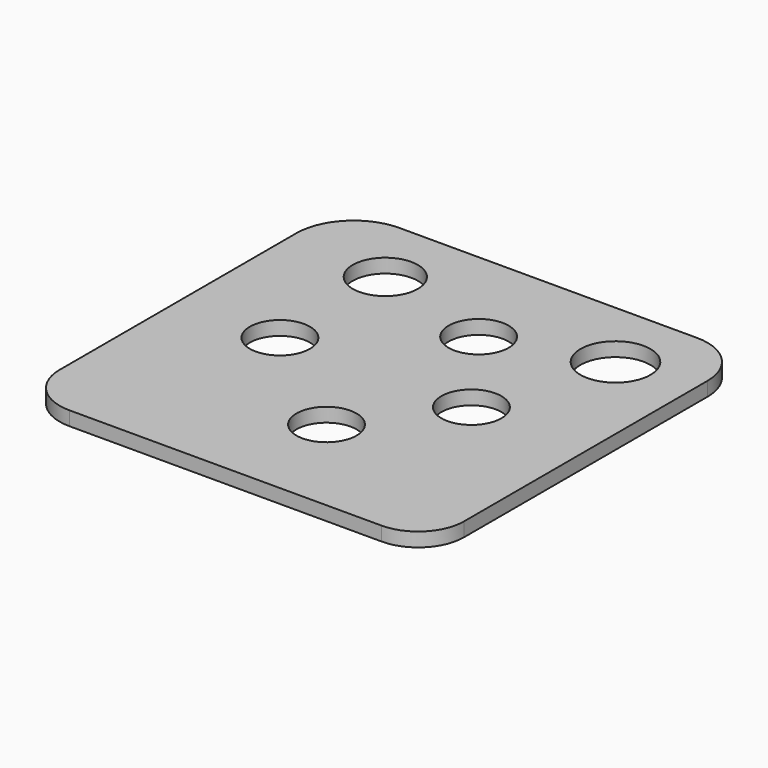
from build123d import *

# Parameters (mm, degrees)
PAD002_DEPTH    = 1.4
SKETCH004_R     = 3
POCKET001_DEPTH = 1.401
SKETCH006_R     = 3
POCKET002_DEPTH = 1.401
SKETCH007_R     = 3.5
POCKET003_DEPTH = 1.401
SKETCH008_R     = 3.25
POCKET004_DEPTH = 1.401


with BuildPart() as part:
    # Sketch003 → Pad002 (new body)
    with BuildSketch(Plane.XY):
        with BuildLine():
            Line((5.695763, -19.849672), (35.445129, -19.849672))
            ThreePointArc((40.603524, -25.008067), (39.092665, -21.360531), (35.445129, -19.849672))
            Line((40.603524, -25.008067), (40.603524, -55.432506))
            ThreePointArc((36.03603, -60), (39.265736, -58.662212), (40.603524, -55.432506))
            Line((36.03603, -60), (4.835631, -60))
            ThreePointArc((-0.035371, -55.128997), (1.391312, -58.573316), (4.835631, -60))
            Line((-0.035371, -55.128997), (-0.035371, -25.580806))
            ThreePointArc((5.695763, -19.849672), (1.643239, -21.528282), (-0.035371, -25.580806))
        make_face()
    extrude(amount=PAD002_DEPTH)

    # Sketch004 (on Face10 of Pad002) → Pocket001 (cut, through all)
    with BuildSketch(Plane.XY.offset(1.4)):
        with Locations((22, -49.34482)):
            Circle(SKETCH004_R)
        with Locations((22, -30.34482)):
            Circle(SKETCH004_R)
    extrude(amount=-POCKET001_DEPTH, mode=Mode.SUBTRACT)

    # Sketch006 (on Face5 of Pocket001) → Pocket002 (cut, through all)
    with BuildSketch(Plane.XY.offset(1.4)):
        with Locations((10, -40.165066)):
            Circle(SKETCH006_R)
        with Locations((29, -39.995171)):
            Circle(SKETCH006_R)
    extrude(amount=-POCKET002_DEPTH, mode=Mode.SUBTRACT)

    # Sketch007 (on Face5 of Pocket002) → Pocket003 (cut, through all)
    with BuildSketch(Plane.XY.offset(1.4)):
        with Locations((33, -27)):
            Circle(SKETCH007_R)
    extrude(amount=-POCKET003_DEPTH, mode=Mode.SUBTRACT)

    # Sketch008 (on Face5 of Pocket003) → Pocket004 (cut, through all)
    with BuildSketch(Plane.XY.offset(1.4)):
        with Locations((10, -27)):
            Circle(SKETCH008_R)
    extrude(amount=-POCKET004_DEPTH, mode=Mode.SUBTRACT)


with BuildPart() as part_1:
    # Body002 placement: moved
    add(part.part.moved(Location((0, 122, 0))))


solid = part_1.part
